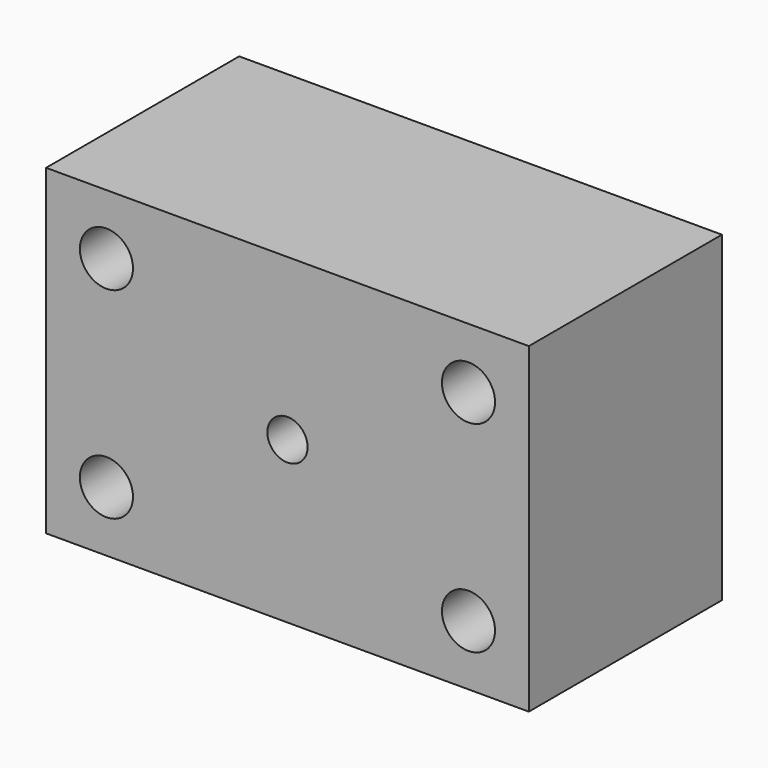
from build123d import *

# Parameters (mm, degrees)
SKETCH_W      = 60
SKETCH_H      = 40
PAD_DEPTH     = 30
SKETCH001_R   = 2.5
HOLE_DEPTH    = 30.001
SKETCH005_R   = 3.3
HOLE002_DEPTH = 30.001


with BuildPart() as part:
    # Sketch → Pad (new body)
    with BuildSketch(Plane.XZ):
        with Locations((0, 20)):
            Rectangle(SKETCH_W, SKETCH_H)
    extrude(amount=-PAD_DEPTH)

    # Sketch001 → Hole (cut, through all)
    with BuildSketch(Plane.XZ):
        with Locations((0, 20)):
            Circle(SKETCH001_R)
    extrude(amount=-HOLE_DEPTH, mode=Mode.SUBTRACT)

    # Sketch005 → Hole002 (cut, through all)
    with BuildSketch(Plane.XZ):
        with Locations((-22.5, 32.5)):
            Circle(SKETCH005_R)
        with Locations((22.5, 7.5)):
            Circle(SKETCH005_R)
        with Locations((22.5, 32.5)):
            Circle(SKETCH005_R)
        with Locations((-22.5, 7.5)):
            Circle(SKETCH005_R)
    extrude(amount=-HOLE002_DEPTH, mode=Mode.SUBTRACT)


solid = part.part
